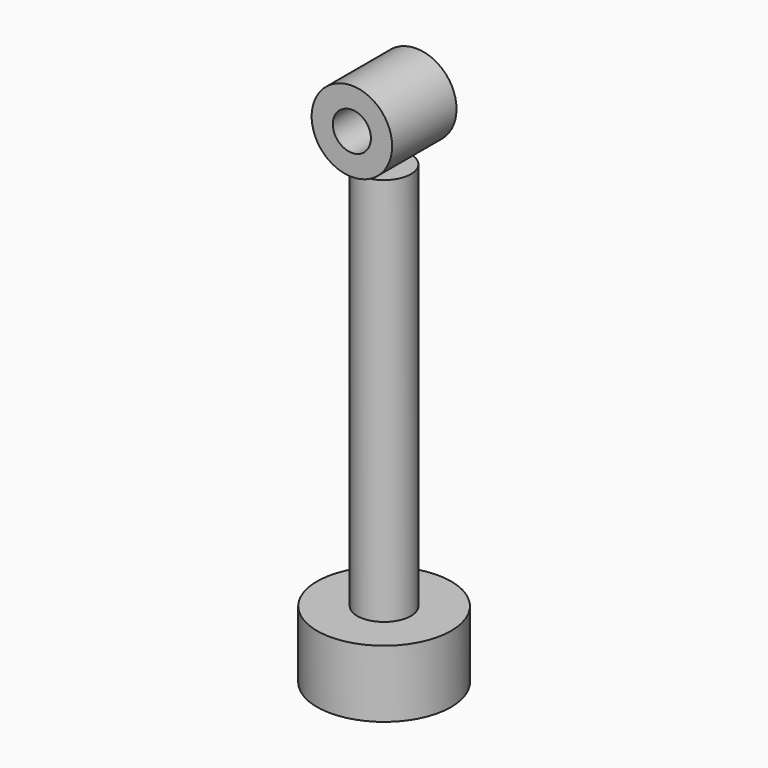
from build123d import *

# Parameters (mm, degrees)
F0_R     = 50
F1_DEPTH = 50
F2_R     = 20
F3_DEPTH = 290
F4_R     = 30
F4_R_2   = 14.184342
F5_DEPTH = 30


with BuildPart() as f1:
    # F0 (on Top) → F1 (new body)
    with BuildSketch(Plane.XY):
        Circle(F0_R)
    extrude(amount=F1_DEPTH)

    # F2 (on face) → F3 (join)
    with BuildSketch(Plane.XY.offset(50)):
        Circle(F2_R)
    extrude(amount=F3_DEPTH)


with BuildPart() as f5:
    # F4 (on Front) → F5 (new body, symmetric)
    with BuildSketch(Plane.XZ):
        with Locations((0, 373.844266)):
            Circle(F4_R)
        with Locations((0, 373.844266)):
            Circle(F4_R_2, mode=Mode.SUBTRACT)
    extrude(amount=F5_DEPTH, both=True)


solid = Compound([f1.part, f5.part])
